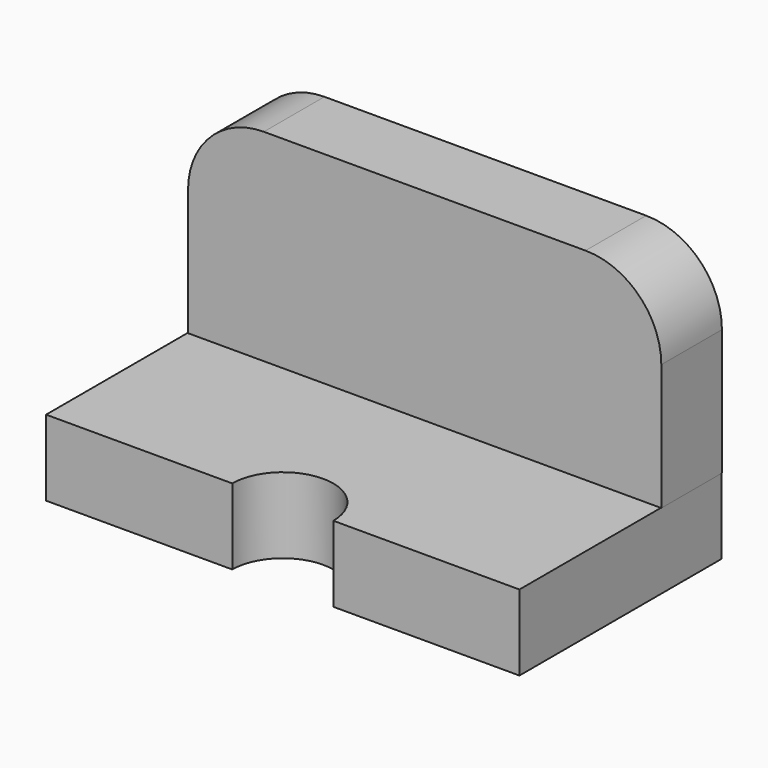
from build123d import *

# Parameters (mm, degrees)
F0_W     = 119.0162692178
F0_H     = 19.05
F1_DEPTH = 63.5
F2_W     = 118.98781716
F2_H     = 50.8
F3_DEPTH = 19.05
F5_DEPTH = 25.4
F6_R     = 19.05
F7_R     = 19.05


with BuildPart() as f1:
    # F0 (on Front) → F1 (new body)
    with BuildSketch(Plane.XZ):
        with Locations((-0.0617158565, 9.525)):
            Rectangle(F0_W, F0_H)
    extrude(amount=F1_DEPTH)

    # F2 (on Front) → F3 (join)
    with BuildSketch(Plane.XZ):
        with Locations((0.0594016165, 44.4325357676)):
            Rectangle(F2_W, F2_H)
    extrude(amount=F3_DEPTH)

    # F4 (on face) → F5 (cut)
    with BuildSketch(Plane.XY.offset(19.05)):
        with BuildLine():
            Line((-12.7617158565, -63.5), (12.6382841435, -63.5))
            ThreePointArc((12.6382841435, -63.5), (-0.0617158565, -50.8), (-12.7617158565, -63.5))
        make_face()
    extrude(amount=-F5_DEPTH, mode=Mode.SUBTRACT)

    # F6
    f6_edges = [f1.edges().sort_by_distance(p)[0] for p in [
        (-59.434507, -9.525, 69.832536),
    ]]
    fillet(f6_edges, radius=F6_R)

    # F7
    f7_edges = [f1.edges().sort_by_distance(p)[0] for p in [
        (59.55331, -9.525, 69.832536),
    ]]
    fillet(f7_edges, radius=F7_R)


solid = f1.part
